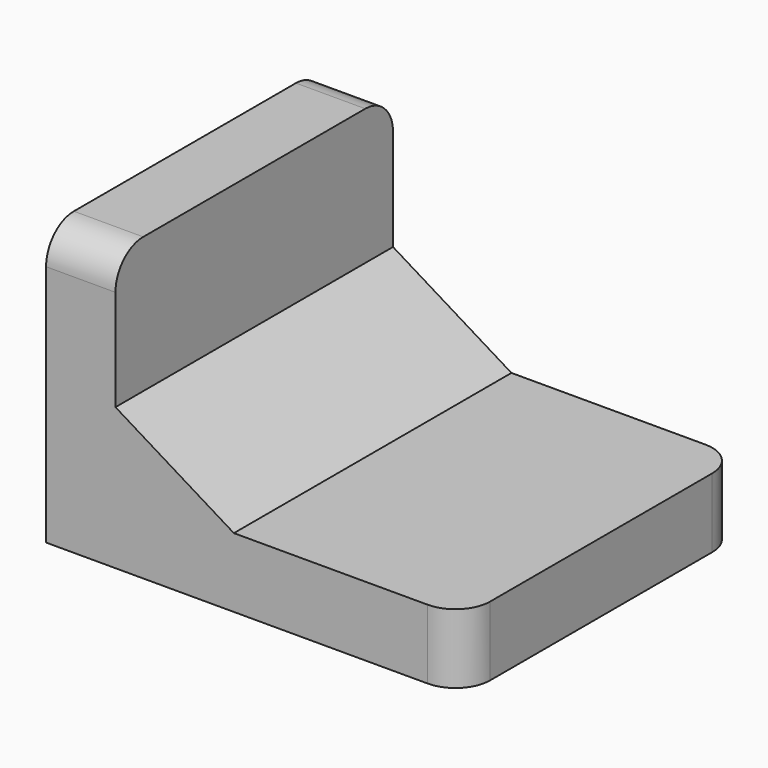
from build123d import *

# Parameters (mm, degrees)
F1_DEPTH = 50
F2_R     = 5


with BuildPart() as f1:
    # F0 (on Front) → F1 (new body)
    with BuildSketch(Plane.XZ):
        Polygon((0, 40), (0, 0), (60, 0), (60, 10), (27.063251, 10), (10, 20.432902), (10, 40), align=None)
    extrude(amount=-F1_DEPTH)

    # F2
    f2_edges = [f1.edges().sort_by_distance(p)[0] for p in [
        (5, 0, 40),
        (5, 50, 40),
        (60, 0, 5),
        (60, 50, 5),
    ]]
    fillet(f2_edges, radius=F2_R)


solid = f1.part
